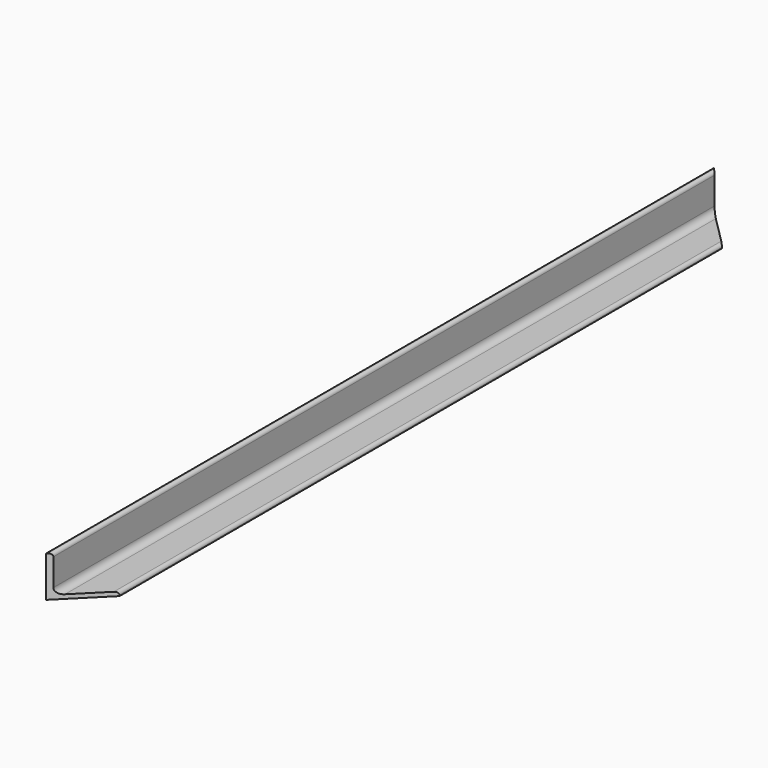
from build123d import *

# Parameters (mm, degrees)
F1_DEPTH = 650
F3_DEPTH = 40


with BuildPart() as f1:
    # F0 (on Front) → F1 (new body)
    with BuildSketch(Plane.XZ):
        with BuildLine():
            Line((-9.480181, 31.8), (-10.150181, 31.8))
            Line((-10.150181, 31.8), (-10.150181, 0))
            Line((-10.150181, 0), (21.649819, 0))
            Line((21.649819, 0), (21.649819, 0.67))
            ThreePointArc((21.649819, 0.67), (20.917586, 2.437767), (19.149819, 3.17))
            Line((19.149819, 3.17), (-1.980181, 3.17))
            ThreePointArc((-1.980181, 3.17), (-5.515715, 4.634466), (-6.980181, 8.17))
            Line((-6.980181, 8.17), (-6.980181, 29.3))
            ThreePointArc((-6.980181, 29.3), (-7.712414, 31.067767), (-9.480181, 31.8))
        make_face()
    extrude(amount=F1_DEPTH)

    # F2 (on face) → F3 (cut)
    with BuildSketch(Plane(origin=(0, 0, 0), x_dir=(1, 0, 0), z_dir=(0, 0, -1))):
        Polygon((21.649819, 650), (-10.150181, 650), (21.649819, 618.2), align=None)
        Polygon((21.649819, 31.8), (-10.150181, 0), (21.649819, 0), align=None)
    extrude(amount=-F3_DEPTH, mode=Mode.SUBTRACT)


solid = f1.part
